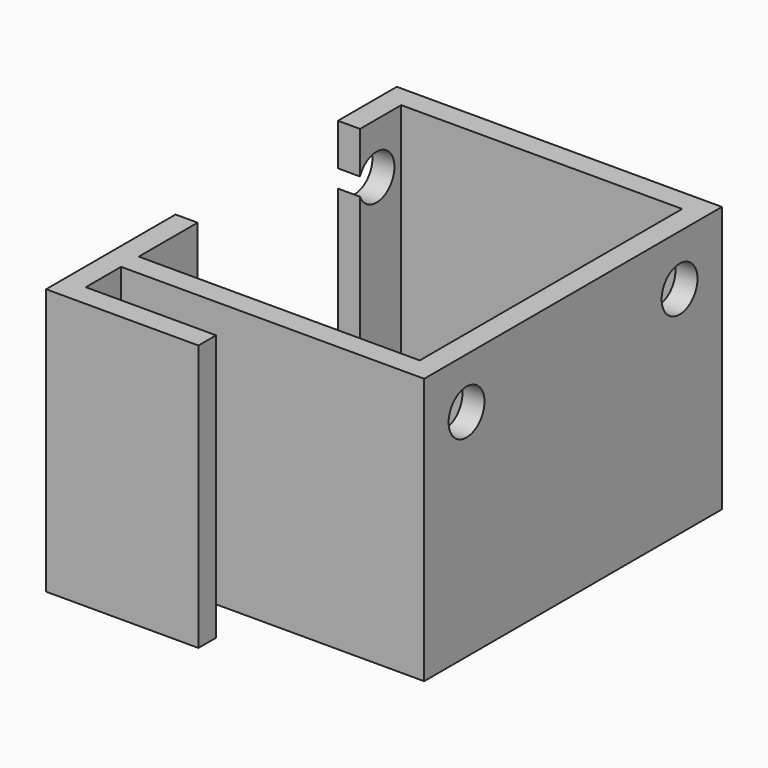
from build123d import *

# Parameters (mm, degrees)
F0_W     = 1.5
F0_H     = 1.5
F0_W_2   = 19.1
F0_H_2   = 3.5
F0_H_3   = 22.3
F0_H_4   = 5
F0_H_5   = 3
F0_W_3   = 8.857275
F1_DEPTH = 18.1
F2_R     = 1.525
F3_DEPTH = 25


with BuildPart() as f1:
    # F0 (on Top) → F1 (new body)
    with BuildSketch(Plane.XY):
        with Locations((-21.35, 18.05)):
            Rectangle(F0_W, F0_H)
        with Locations((-11.05, 18.05)):
            Rectangle(F0_W_2, F0_H)
        with Locations((-21.35, 15.55)):
            Rectangle(F0_W, F0_H_2)
        with Locations((-0.75, 18.05)):
            Rectangle(F0_W, F0_H)
        with Locations((-0.75, 6.15)):
            Rectangle(F0_W, F0_H_3)
        with Locations((-0.75, -5.75)):
            Rectangle(F0_W, F0_H)
        with Locations((-11.05, -5.75)):
            Rectangle(F0_W_2, F0_H)
        with Locations((-21.35, -5.75)):
            Rectangle(F0_W, F0_H)
        with Locations((-21.35, -2.5)):
            Rectangle(F0_W, F0_H_4)
        with Locations((-21.35, -8)):
            Rectangle(F0_W, F0_H_5)
        with Locations((-16.171363, -10.25)):
            Rectangle(F0_W_3, F0_H)
        with Locations((-21.35, -10.25)):
            Rectangle(F0_W, F0_H)
    extrude(amount=F1_DEPTH)

    # F2 (on face) → F3 (cut)
    with BuildSketch(Plane.YZ):
        with Locations((-2.9, 14.645781)):
            Circle(F2_R)
        with Locations((15.2, 14.645781)):
            Circle(F2_R)
    extrude(amount=-F3_DEPTH, mode=Mode.SUBTRACT)


solid = f1.part
